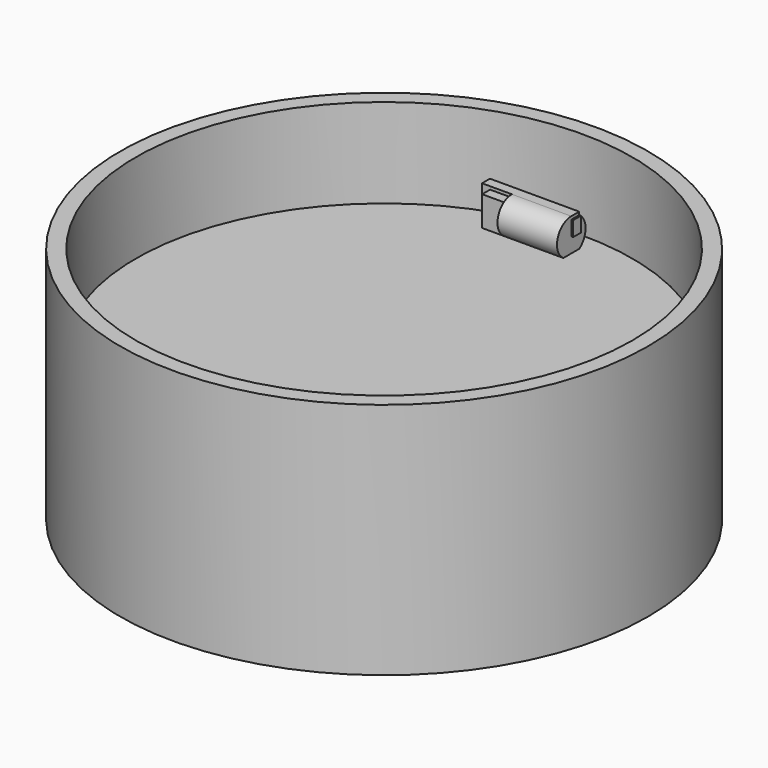
from build123d import *

# Parameters (mm, degrees)
F0_R      = 112.6860587027
F1_DEPTH  = 101.6
F2_R      = 105.9744016923
F3_DEPTH  = 88.9
F4_DEPTH  = 25.4
F5_DEPTH  = 25.4
F6_W      = 9.2725791037
F6_H      = 8.4680765867
F7_DEPTH  = 12.7
F8_R      = 7.6321412637
F9_DEPTH  = 25.4
F10_W     = 4.2340382934
F10_H     = 13.9821412637
F11_DEPTH = 38.1
F12_W     = 4.2340382934
F12_H     = 6.35
F13_DEPTH = 0.762


with BuildPart() as f1:
    # F0 (on Top) → F1 (new body)
    with BuildSketch(Plane.XY):
        Circle(F0_R)
    extrude(amount=F1_DEPTH)

    # F2 (on face) → F3 (cut)
    with BuildSketch(Plane.XY.offset(101.6)):
        Circle(F2_R)
    extrude(amount=-F3_DEPTH, mode=Mode.SUBTRACT)

    # F4 (add): a face of the model
    f4_faces = [f1.faces().sort_by_distance(p)[0] for p in [
        (0, 0, 12.7),
    ]]
    extrude(f4_faces, amount=F4_DEPTH)

    # F5 (add): a face of the model
    f5_faces = [f1.faces().sort_by_distance(p)[0] for p in [
        (0, 0, 38.1),
    ]]
    extrude(f5_faces, amount=F5_DEPTH)

    # F6 (on face) → F7 (join)
    with BuildSketch(Plane.XY.offset(63.5)):
        with Locations((-24.9477978796, 93.518204987)):
            Rectangle(F6_W, F6_H)
    extrude(amount=F7_DEPTH)

    # F8 (on face) → F9 (join)
    with BuildSketch(Plane.YZ.offset(-20.3115083277)):
        with Locations((93.518204987, 69.85)):
            Circle(F8_R)
    extrude(amount=F9_DEPTH)

    # F10 (on face) → F11 (join)
    with BuildSketch(Plane.YZ.offset(5.0884916723)):
        with Locations((95.6352241337, 70.4910706319)):
            Rectangle(F10_W, F10_H)
    extrude(amount=-F11_DEPTH)

    # F12 (on face) → F13 (join)
    with BuildSketch(Plane.YZ.offset(5.0884916723)):
        with Locations((95.6352241337, 73.025)):
            Rectangle(F12_W, F12_H)
    extrude(amount=F13_DEPTH)


solid = f1.part
